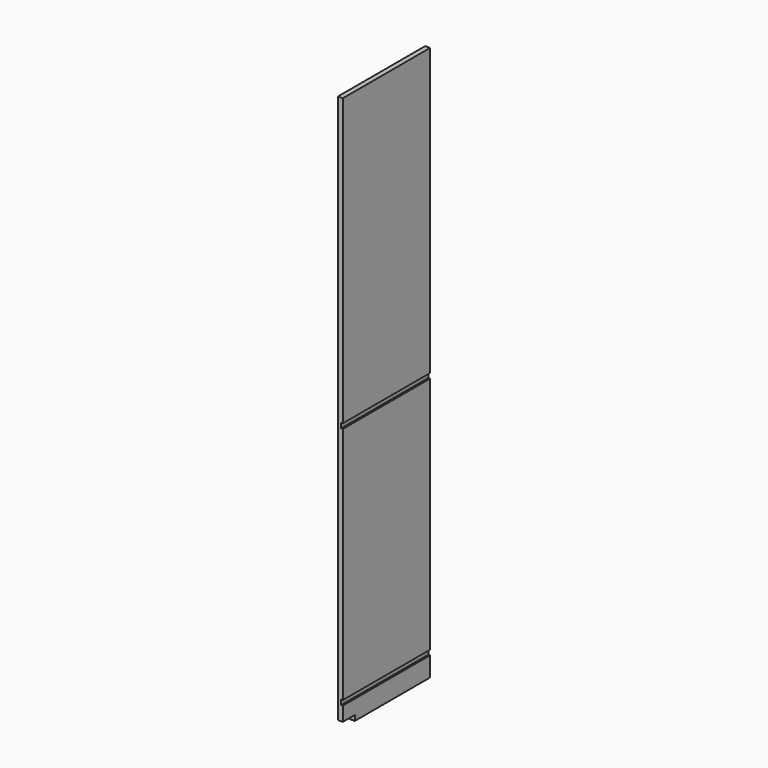
from build123d import *

# Parameters (mm, degrees)
F0_W     = 18.25625
F0_H     = 2064.54375
F1_DEPTH = 406.4
F3_DEPTH = 406.4
F4_W     = 55.88
F4_H     = 19.685
F5_DEPTH = 25.4


with BuildPart() as f1:
    # F0 (on Front) → F1 (new body)
    with BuildSketch(Plane.XZ):
        with Locations((9.128125, 1032.271875)):
            Rectangle(F0_W, F0_H)
    extrude(amount=F1_DEPTH)

    # F2 (on face) → F3 (cut)
    with BuildSketch(Plane.XZ.offset(406.4)):
        Polygon((11.90625, 73.03135), (18.25625, 73.03135), (18.25625, 91.2876), (18.25625, 91.29395), (11.90625, 91.29395), align=None)
        Polygon((11.90625, 980.28125), (18.25625, 980.28125), (18.25625, 995.793984), (18.25625, 998.5375), (11.90625, 998.5375), align=None)
    extrude(amount=-F3_DEPTH, mode=Mode.SUBTRACT)

    # F4 (on face) → F5 (cut)
    with BuildSketch(Plane(origin=(0, 0, 0), x_dir=(0, -1, 0), z_dir=(-1, 0, 0))):
        with Locations((378.46, 9.8425)):
            Rectangle(F4_W, F4_H)
    extrude(amount=-F5_DEPTH, mode=Mode.SUBTRACT)


solid = f1.part
